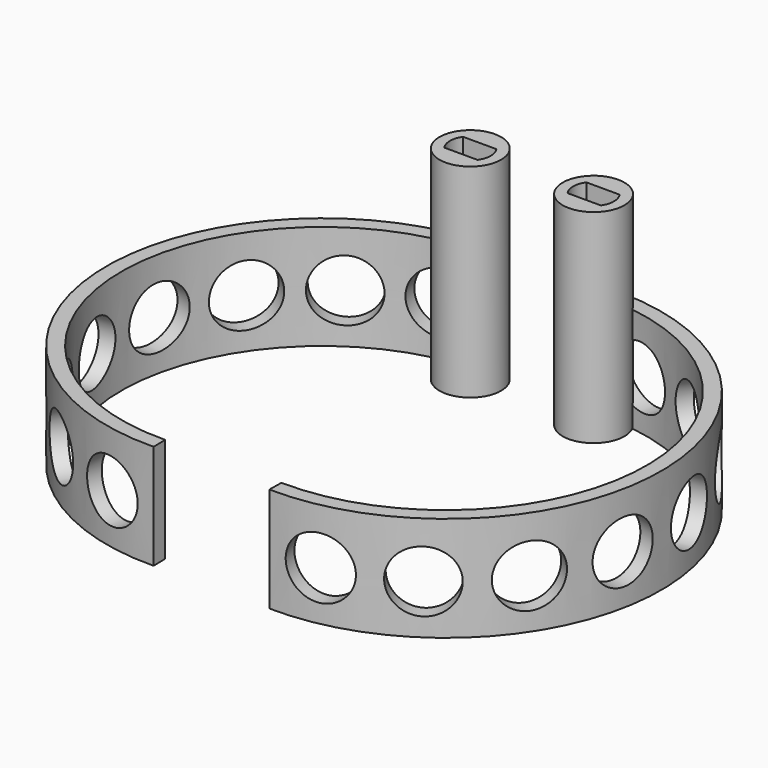
from build123d import *

# Parameters (mm, degrees)
CYLINDER006_R             = 3
CYLINDER006_DEPTH         = 15
CYLINDER007_R             = 1.2
CYLINDER007_DEPTH         = 10
BOX_W                     = 10
BOX_H                     = 3.8
BOX_DEPTH                 = 9
CYLINDER_R                = 3.3
CYLINDER_DEPTH            = 12
CYLINDER001_R             = 5
CYLINDER001_DEPTH         = 33
BOX003_W                  = 106
BOX003_H                  = 45
BOX003_DEPTH              = 20
BOX003_PLACEMENT_ANGLE    = 80
CYLINDER005_R             = 5
CYLINDER005_DEPTH         = 16
CYLINDER005_PITCH_ANGLE   = 90
ARRAY_COUNT               = 16
CYLINDER004_R             = 32.6
CYLINDER004_DEPTH         = 19
CYLINDER003_R             = 35
CYLINDER003_DEPTH         = 17
COMMON001_PLACEMENT_ANGLE = 11


with BuildPart() as cylinder006:
    # Cylinder006 → Cylinder006 (new body)
    with BuildSketch(Plane.XY):
        Circle(CYLINDER006_R)
    extrude(amount=CYLINDER006_DEPTH)


with BuildPart() as cylinder007:
    # Cylinder007 → Cylinder007 (new body)
    with BuildSketch(Plane.XY.offset(15)):
        Circle(CYLINDER007_R)
    extrude(amount=CYLINDER007_DEPTH)


with BuildPart() as cube:
    # Box → Box (new body)
    with BuildSketch(Plane(origin=(-5, -1.9, 3), x_dir=(1, 0, 0), z_dir=(0, 0, 1))):
        with Locations((5, 1.9)):
            Rectangle(BOX_W, BOX_H)
    extrude(amount=BOX_DEPTH)


with BuildPart() as fusion:
    # Cylinder → Cylinder (new body)
    with BuildSketch(Plane.XY):
        Circle(CYLINDER_R)
    extrude(amount=CYLINDER_DEPTH)

    # Common: intersect Cube
    add(cube.part, mode=Mode.INTERSECT)


with BuildPart() as fusion_1:
    # Common placement: moved
    add(fusion.part.moved(Location((0, 0, 21))))

    # Fusion: union Cylinder006, Cylinder007
    add(cylinder006.part)
    add(cylinder007.part)


with BuildPart() as cut:
    # Cylinder001 → Cylinder001 (new body)
    with BuildSketch(Plane.XY):
        Circle(CYLINDER001_R)
    extrude(amount=CYLINDER001_DEPTH)

    # Cut: cut Fusion
    add(fusion_1.part, mode=Mode.SUBTRACT)


with BuildPart() as cut_1:
    # Cut placement: moved
    add(cut.part.moved(Location((0, 30, 0))))


with BuildPart() as cube003:
    # Box003 → Box003 (new body)
    with BuildSketch(Plane.XY):
        with Locations((53, 22.5)):
            Rectangle(BOX003_W, BOX003_H)
    extrude(amount=BOX003_DEPTH)


with BuildPart() as cube003_1:
    # Box003 placement: moved
    add(cube003.part.moved(Location((-7.64052, -43.331541, 0))).rotate(Axis((-7.64052, -43.331541, 0), (0, 0, 1)), BOX003_PLACEMENT_ANGLE))


with BuildPart() as array:
    # Cylinder005 → Cylinder005 (new body)
    with BuildSketch(Plane.XY):
        Circle(CYLINDER005_R)
    extrude(amount=CYLINDER005_DEPTH)


with BuildPart() as array_1:
    # Cylinder005 pitch: moved
    add(array.part.rotate(Axis((0, 0, 0), (0, 1, 0)), CYLINDER005_PITCH_ANGLE))


with BuildPart() as array_2:
    # Cylinder005 placement: moved
    add(array_1.part.moved(Location((23, 0, 8))))

    # Array: Array ×16 about axis
    array_axis = Axis((0, 0, 0), (0, 0, 1))


with BuildPart() as array_3:
    add(array_2.part)
    for i in range(1, ARRAY_COUNT):
        add(array_2.part.rotate(array_axis, i * 360 / ARRAY_COUNT))


with BuildPart() as cylinder004:
    # Cylinder004 → Cylinder004 (new body)
    with BuildSketch(Plane.XY):
        Circle(CYLINDER004_R)
    extrude(amount=CYLINDER004_DEPTH)


with BuildPart() as common001:
    # Cylinder003 → Cylinder003 (new body)
    with BuildSketch(Plane.XY):
        Circle(CYLINDER003_R)
    extrude(amount=CYLINDER003_DEPTH)

    # Cut002: cut Cylinder004
    add(cylinder004.part, mode=Mode.SUBTRACT)

    # Cut003: cut Array
    add(array_3.part, mode=Mode.SUBTRACT)

    # Common001: intersect Cube003
    add(cube003_1.part, mode=Mode.INTERSECT)


with BuildPart() as common001_1:
    # Common001 placement: moved
    add(common001.part.rotate(Axis((0, 0, 0), (0, 0, 1)), COMMON001_PLACEMENT_ANGLE))


with BuildPart() as fusion001:
    # Fusion001 base: copy of Common001
    add(common001_1.part)

    # Fusion001: union Cut
    add(cut_1.part)


with BuildPart() as fusion002:
    # Fusion002 base: copy of Common001
    add(common001_1.part)

    # Fusion002: union Cut
    add(cut_1.part)


with BuildPart() as part_mirroring:
    # Part__Mirroring: instance of Fusion002
    add(fusion002.part.mirror(Plane(origin=(0, 0, 0), x_dir=(0, -1, 0), z_dir=(1, 0, 0))))


with BuildPart() as part_mirroring_1:
    # Part__Mirroring placement: moved
    add(part_mirroring.part.moved(Location((20, 0, 0))))


solid = Compound([fusion001.part, part_mirroring_1.part])
